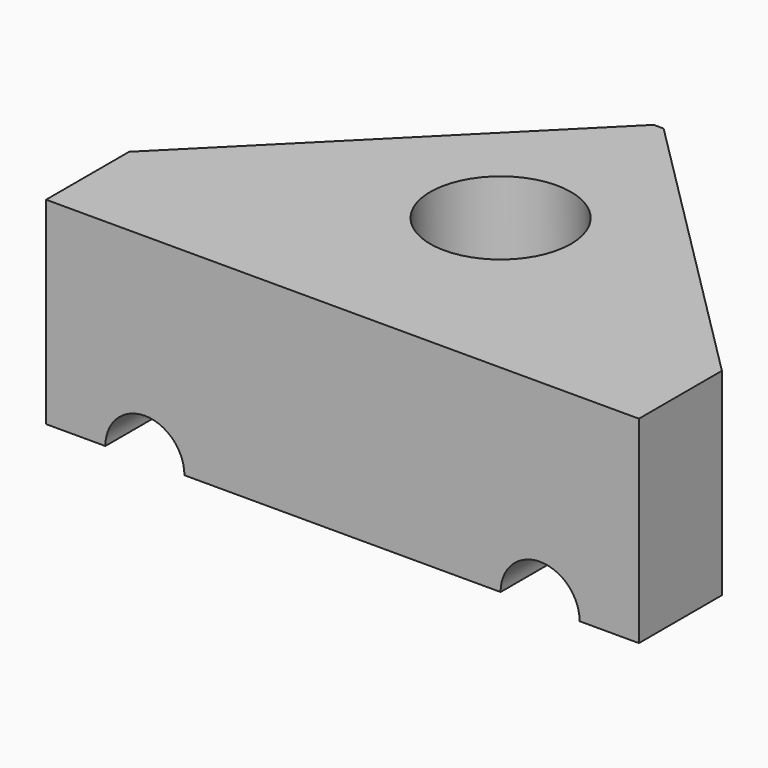
from build123d import *

# Parameters (mm, degrees)
F0_W           = 60
F0_H           = 20
F1_DEPTH       = 40
F3_DEPTH       = 20.001
F4_R           = 4
F5_DEPTH       = 40.001
F7_D           = 7.4
F7_DEPTH       = 30
F7_CBORE_D     = 14.25
F7_CBORE_DEPTH = 8
F7_TIP         = 2.2231842904


with BuildPart() as f1:
    # F0 (on Front) → F1 (new body)
    with BuildSketch(Plane.XZ):
        Rectangle(F0_W, F0_H)
    extrude(amount=-F1_DEPTH)

    # F2 (on face) → F3 (cut, through all)
    with BuildSketch(Plane.XY.offset(10)):
        Polygon((-30, 10.5), (-0.5, 40), (-30, 40), align=None)
        Polygon((30, 40), (0.5, 40), (30, 10.5), align=None)
    extrude(amount=-F3_DEPTH, mode=Mode.SUBTRACT)

    # F4 (on face) → F5 (cut, through all)
    with BuildSketch(Plane.XZ):
        with Locations((-20, -10)):
            Circle(F4_R)
        with Locations((20, -10)):
            Circle(F4_R)
    extrude(amount=-F5_DEPTH, mode=Mode.SUBTRACT)

    # F7
    with Locations(Plane.XY.offset(10)):
        with Locations((0, 20)):
            CounterBoreHole(F7_D / 2, F7_CBORE_D / 2, F7_CBORE_DEPTH, depth=F7_DEPTH)
            with Locations((0, 0, -(F7_DEPTH + F7_TIP / 2))):  # 118° drill point
                Cone(0, F7_D / 2, F7_TIP, mode=Mode.SUBTRACT)


solid = f1.part
